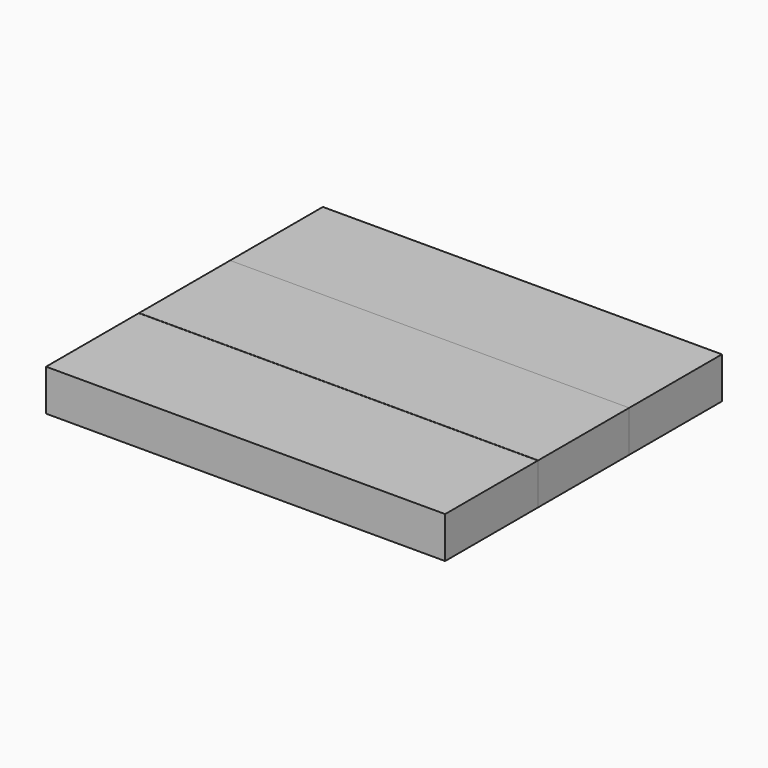
from build123d import *

# Parameters (mm, degrees)
F0_W     = 244.993903
F0_H     = 71.176084
F1_DEPTH = 25.4


with BuildPart() as f1:
    # F0 (on Top) → F1 (new body)
    with BuildSketch(Plane.XY):
        with Locations((-15.260022, 7.545265)):
            Rectangle(F0_W, F0_H)
    extrude(amount=F1_DEPTH)


with BuildPart() as f2_1:
    # F2: copy of F1
    add(f1.part.moved(Location((0, -71.374, 0))))


with BuildPart() as f3_1:
    # F3: copy of F1
    add(f1.part.moved(Location((0, 69.85, 0))))


solid = Compound([f1.part, f2_1.part, f3_1.part])
